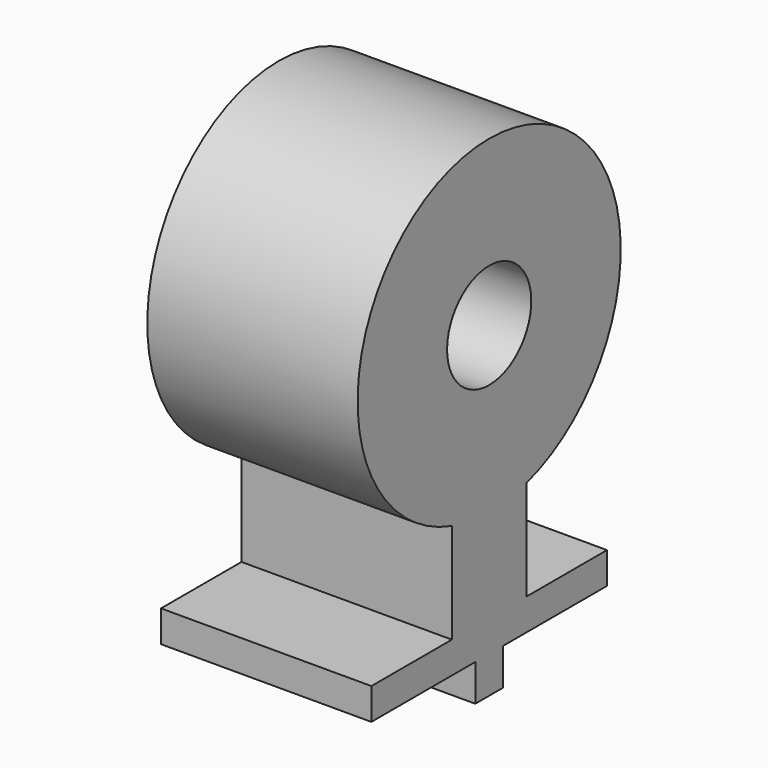
from build123d import *

# Parameters (mm, degrees)
F0_W     = 41.91
F0_H     = 38.1
F0_W_2   = 242.9255103827
F0_H_2   = 76.2
F1_DEPTH = 508


with BuildPart() as f1:
    # F0 (on Right) → F1 (new body)
    with BuildSketch(Plane.YZ):
        Polygon((-41.91, -63.5), (41.91, -63.5), (41.91, 25.4), (0, 25.4), (-41.91, 25.4), align=None)
        with Locations((20.955, 44.45)):
            Rectangle(F0_W, F0_H)
        Polygon((41.91, 63.5), (41.91, 25.4), (112.6744896173, 25.4), (112.6744896173, 101.6), (0, 101.6), (0, 63.5), align=None)
        Polygon((-112.6744896173, 25.4), (-41.91, 25.4), (-41.91, 63.5), (0, 63.5), (0, 101.6), (-112.6744896173, 101.6), align=None)
        with Locations((-20.955, 44.45)):
            Rectangle(F0_W, F0_H)
        with Locations((234.1372448087, 63.5)):
            Rectangle(F0_W_2, F0_H_2)
        with Locations((-234.1372448087, 63.5)):
            Rectangle(F0_W_2, F0_H_2)
        with BuildLine():
            Line((0, 101.6), (112.6744896173, 101.6))
            Line((112.6744896173, 101.6), (112.6744896173, 343.1430537243))
            ThreePointArc((112.6744896173, 343.1430537243), (56.9252494362, 330.9230175642), (0, 326.8214274885))
            Line((0, 326.8214274885), (0, 101.6))
        make_face()
        with BuildLine():
            Line((-112.6744896173, 343.1430537243), (-112.6744896173, 101.6))
            Line((-112.6744896173, 101.6), (0, 101.6))
            Line((0, 101.6), (0, 326.8214274885))
            ThreePointArc((0, 326.8214274885), (-56.9252494362, 330.9230175642), (-112.6744896173, 343.1430537243))
        make_face()
        with BuildLine():
            Line((112.6744896173, 628.242854977), (112.6744896173, 343.1430537243))
            ThreePointArc((112.6744896173, 343.1430537243), (318.1289190277, 486.2755407665), (397.0785725115, 723.9))
            ThreePointArc((397.0785725115, 723.9), (-237.6244592335, 1042.0289190277), (-112.6744896173, 343.1430537243))
            Line((-112.6744896173, 343.1430537243), (-112.6744896173, 628.242854977))
            Line((-112.6744896173, 628.242854977), (-83.5386773061, 628.242854977))
            ThreePointArc((-83.5386773061, 628.242854977), (-52.5337414531, 839.525282741), (127, 723.9))
            ThreePointArc((127, 723.9), (115.625282741, 671.3662585469), (83.5386773061, 628.242854977))
            Line((83.5386773061, 628.242854977), (112.6744896173, 628.242854977))
        make_face()
        with BuildLine():
            ThreePointArc((0, 326.8214274885), (56.9252494362, 330.9230175642), (112.6744896173, 343.1430537243))
            Line((112.6744896173, 343.1430537243), (112.6744896173, 628.242854977))
            Line((112.6744896173, 628.242854977), (83.5386773061, 628.242854977))
            ThreePointArc((83.5386773061, 628.242854977), (44.6124566802, 604.9936136746), (0, 596.9))
            Line((0, 596.9), (0, 326.8214274885))
        make_face()
        with BuildLine():
            Line((-112.6744896173, 628.242854977), (-112.6744896173, 343.1430537243))
            ThreePointArc((-112.6744896173, 343.1430537243), (-56.9252494362, 330.9230175642), (0, 326.8214274885))
            Line((0, 326.8214274885), (0, 596.9))
            ThreePointArc((0, 596.9), (-44.6124566802, 604.9936136746), (-83.5386773061, 628.242854977))
            Line((-83.5386773061, 628.242854977), (-112.6744896173, 628.242854977))
        make_face()
    extrude(amount=F1_DEPTH)


solid = f1.part
